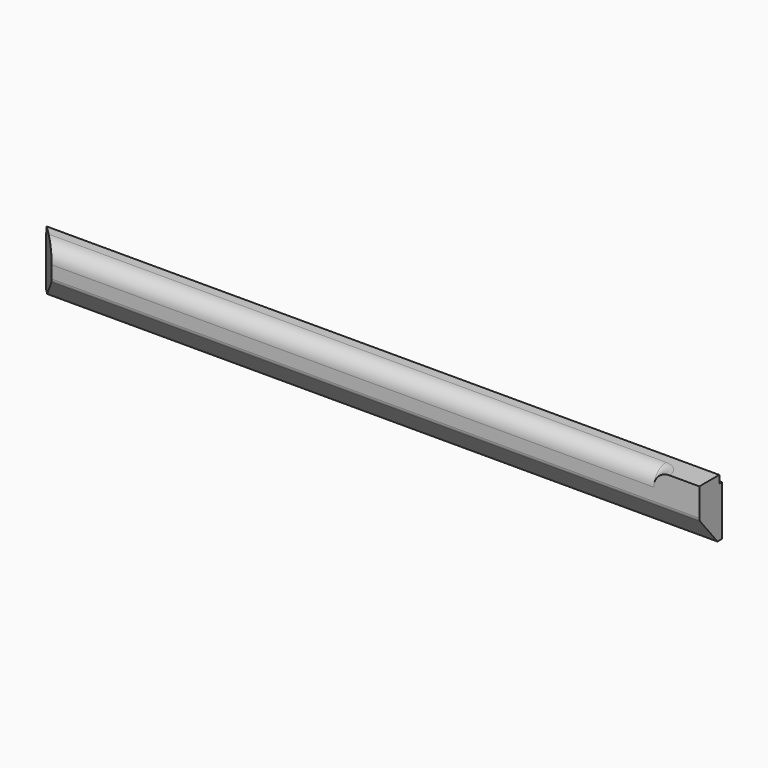
from build123d import *

# Parameters (mm, degrees)
F1_DEPTH      = 41
F1_DEPTH_BACK = 824
F5_DEPTH      = 824
F6_R          = 5
F8_DEPTH      = 52.001


with BuildPart() as f1:
    # F0 (on Right) → F1 (new body, two sides)
    with BuildSketch(Plane.YZ) as f1_sk:
        Polygon((22.4, 0), (0, 0), (0, -27), (20.4, -52), (25.4, -52), (25.4, -7), (22.4, -7), align=None)
    extrude(amount=F1_DEPTH)
    extrude(f1_sk.sketch, amount=-F1_DEPTH_BACK)

    # F2 (on Right) → F3 (revolve, cut)
    with BuildSketch(Plane.YZ):
        with BuildLine():
            ThreePointArc((0, -14), (4.100505, -4.100505), (14, 0))
            Line((14, 0), (14, 13.538237))
            Line((14, 13.538237), (0, 13.538237))
            Line((0, 13.538237), (0, -14))
        make_face()
    revolve(axis=Axis((0, 0, -0.230882), (0, 0, 1)), mode=Mode.SUBTRACT)

    # F4 (on face) → F5 (cut, through all)
    with BuildSketch(Plane(origin=(-824, 0, 0), x_dir=(0, -1, 0), z_dir=(-1, 0, 0))):
        with BuildLine():
            Line((-14, 13.538237), (-14, 0))
            ThreePointArc((-14, 0), (-4.100505, -4.100505), (0, -14))
            Line((0, -14), (0, 13.538237))
            Line((0, 13.538237), (-14, 13.538237))
        make_face()
    extrude(amount=-F5_DEPTH, mode=Mode.SUBTRACT)

    # F6
    f6_edges = [f1.edges().sort_by_distance(p)[0] for p in [
        (-391.5, 0, -27),
    ]]
    fillet(f6_edges, radius=F6_R)

    # F7 (on face) → F8 (cut, through all)
    with BuildSketch(Plane.XY):
        Polygon((-520.652341, -20.947659), (-567, 25.4), (-818.416774, 72.289795), (-858.546881, 112.419901), (-858.546881, -20.947659), align=None)
    extrude(amount=-F8_DEPTH, mode=Mode.SUBTRACT)


solid = f1.part
